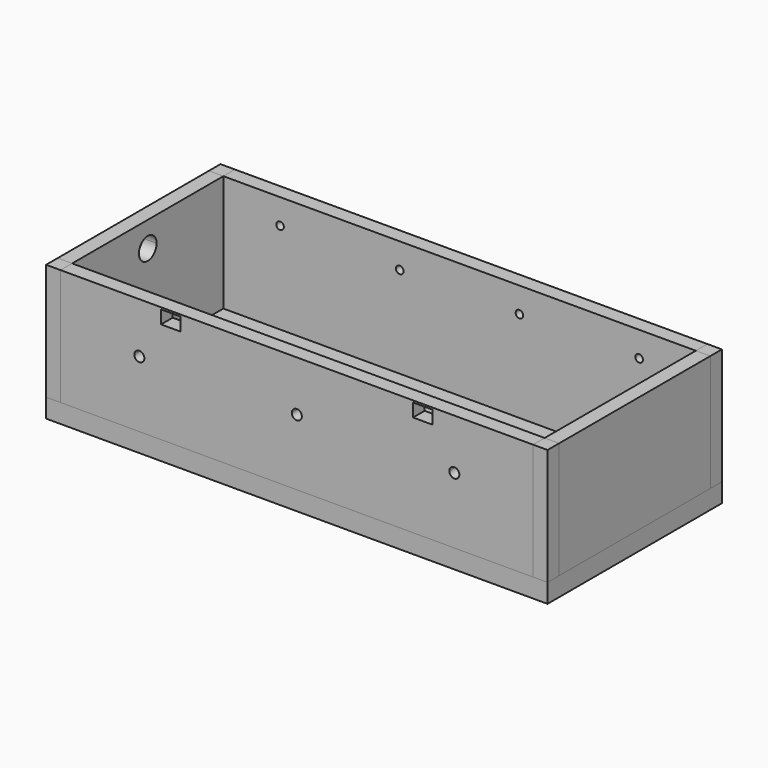
from build123d import *

# Parameters (mm, degrees)
F0_W      = 7960
F0_H      = 3460
F1_DEPTH  = 300
F2_W      = 230
F2_H      = 3000
F3_DEPTH  = 1850
F2_W_2    = 7500
F2_H_2    = 230
F4_DEPTH  = 1850
F6_DEPTH  = 230
F8_DEPTH  = 230
F7_W      = 155
F7_H      = 105
F9_DEPTH  = 230
F11_DEPTH = 230


with BuildPart() as f1:
    # F0 (on Top) → F1 (new body)
    with BuildSketch(Plane.XY):
        Rectangle(F0_W, F0_H)
    extrude(amount=-F1_DEPTH)


with BuildPart() as f3:
    # F2 (on face) → F3 (new body)
    with BuildSketch(Plane.XY):
        with Locations((-3865, 0)):
            Rectangle(F2_W, F2_H)
    extrude(amount=F3_DEPTH)

    # F10 (on face) → F11 (cut)
    with BuildSketch(Plane.YZ.offset(-3750)):
        with BuildLine():
            Line((0, 100), (60, 100))
            ThreePointArc((60, 100), (-42.4264068712, 142.4264068712), (0, 40))
            Line((0, 40), (0, 100))
        make_face()
        with BuildLine():
            ThreePointArc((0, 40), (42.4264068712, 57.5735931288), (60, 100))
            Line((60, 100), (0, 100))
            Line((0, 100), (0, 40))
        make_face()
        with BuildLine():
            Line((0, 1450), (0, 1625))
            ThreePointArc((0, 1625), (-123.7436867076, 1326.2563132924), (175, 1450))
            Line((175, 1450), (0, 1450))
        make_face()
        with BuildLine():
            ThreePointArc((175, 1450), (123.7436867076, 1573.7436867076), (0, 1625))
            Line((0, 1625), (0, 1450))
            Line((0, 1450), (175, 1450))
        make_face()
    extrude(amount=-F11_DEPTH, mode=Mode.SUBTRACT)


with BuildPart() as f3b:
    # F2 (on face) → F3, piece 2 (new body)
    with BuildSketch(Plane.XY):
        with Locations((3865, 0)):
            Rectangle(F2_W, F2_H)
    extrude(amount=F3_DEPTH)


with BuildPart() as f3c:
    # F2 (on face) → F3, piece 3 (new body)
    with BuildSketch(Plane.XY):
        with Locations((0, 1615)):
            Rectangle(F2_W_2, F2_H_2)
    extrude(amount=F3_DEPTH)

    # F5 (on face) → F6 (cut)
    with BuildSketch(Plane.XZ.offset(-1500)):
        with BuildLine():
            Line((-2850, 1450), (-2910, 1450))
            ThreePointArc((-2910, 1450), (-2850, 1390), (-2790, 1450))
            Line((-2790, 1450), (-2850, 1450))
        make_face()
        with BuildLine():
            Line((-2850, 1450), (-2850, 1510))
            ThreePointArc((-2850, 1510), (-2892.4264068712, 1492.4264068712), (-2910, 1450))
            Line((-2910, 1450), (-2850, 1450))
        make_face()
        with BuildLine():
            ThreePointArc((-2790, 1450), (-2807.5735931288, 1492.4264068712), (-2850, 1510))
            Line((-2850, 1510), (-2850, 1450))
            Line((-2850, 1450), (-2790, 1450))
        make_face()
        with BuildLine():
            Line((-950, 1450), (-1010, 1450))
            ThreePointArc((-1010, 1450), (-950, 1390), (-890, 1450))
            Line((-890, 1450), (-950, 1450))
        make_face()
        with BuildLine():
            Line((-950, 1450), (-950, 1510))
            ThreePointArc((-950, 1510), (-992.4264068712, 1492.4264068712), (-1010, 1450))
            Line((-1010, 1450), (-950, 1450))
        make_face()
        with BuildLine():
            ThreePointArc((-890, 1450), (-907.5735931288, 1492.4264068712), (-950, 1510))
            Line((-950, 1510), (-950, 1450))
            Line((-950, 1450), (-890, 1450))
        make_face()
        with BuildLine():
            Line((950, 1450), (890, 1450))
            ThreePointArc((890, 1450), (950, 1390), (1010, 1450))
            Line((1010, 1450), (950, 1450))
        make_face()
        with BuildLine():
            Line((950, 1450), (950, 1510))
            ThreePointArc((950, 1510), (907.5735931288, 1492.4264068712), (890, 1450))
            Line((890, 1450), (950, 1450))
        make_face()
        with BuildLine():
            ThreePointArc((1010, 1450), (992.4264068712, 1492.4264068712), (950, 1510))
            Line((950, 1510), (950, 1450))
            Line((950, 1450), (1010, 1450))
        make_face()
        with BuildLine():
            ThreePointArc((2790, 1450), (2850, 1390), (2910, 1450))
            Line((2910, 1450), (2850, 1450))
            Line((2850, 1450), (2790, 1450))
        make_face()
        with BuildLine():
            Line((2850, 1450), (2850, 1510))
            ThreePointArc((2850, 1510), (2807.5735931288, 1492.4264068712), (2790, 1450))
            Line((2790, 1450), (2850, 1450))
        make_face()
        with BuildLine():
            ThreePointArc((2910, 1450), (2892.4264068712, 1492.4264068712), (2850, 1510))
            Line((2850, 1510), (2850, 1450))
            Line((2850, 1450), (2910, 1450))
        make_face()
    extrude(amount=-F6_DEPTH, mode=Mode.SUBTRACT)


with BuildPart() as f3d:
    # F2 (on face) → F3, piece 4 (new body)
    with BuildSketch(Plane.XY):
        with Locations((0, -1615)):
            Rectangle(F2_W_2, F2_H_2)
    extrude(amount=F3_DEPTH)

    # F7 (on face) → F8 (cut)
    with BuildSketch(Plane(origin=(0, -1500, 0), x_dir=(-1, 0, 0), z_dir=(0, 1, 0))):
        with BuildLine():
            Line((-2500, 1050), (-2500, 1130))
            ThreePointArc((-2500, 1130), (-2556.5685424949, 1106.5685424949), (-2580, 1050))
            Line((-2580, 1050), (-2500, 1050))
        make_face()
        with BuildLine():
            ThreePointArc((-2420, 1050), (-2443.4314575051, 1106.5685424949), (-2500, 1130))
            Line((-2500, 1130), (-2500, 1050))
            Line((-2500, 1050), (-2420, 1050))
        make_face()
        with BuildLine():
            Line((-2500, 1050), (-2580, 1050))
            ThreePointArc((-2580, 1050), (-2500, 970), (-2420, 1050))
            Line((-2420, 1050), (-2500, 1050))
        make_face()
        with BuildLine():
            Line((0, 1050), (0, 1130))
            ThreePointArc((0, 1130), (-56.5685424949, 1106.5685424949), (-80, 1050))
            Line((-80, 1050), (0, 1050))
        make_face()
        with BuildLine():
            Line((0, 1050), (-80, 1050))
            ThreePointArc((-80, 1050), (0, 970), (80, 1050))
            Line((80, 1050), (0, 1050))
        make_face()
        with BuildLine():
            ThreePointArc((80, 1050), (56.5685424949, 1106.5685424949), (0, 1130))
            Line((0, 1130), (0, 1050))
            Line((0, 1050), (80, 1050))
        make_face()
        with BuildLine():
            Line((2500, 1050), (2420, 1050))
            ThreePointArc((2420, 1050), (2500, 970), (2580, 1050))
            Line((2580, 1050), (2500, 1050))
        make_face()
        with BuildLine():
            ThreePointArc((2500, 1130), (2443.4314575051, 1106.5685424949), (2420, 1050))
            Line((2420, 1050), (2500, 1050))
            Line((2500, 1050), (2500, 1130))
        make_face()
        with BuildLine():
            Line((2500, 1050), (2580, 1050))
            ThreePointArc((2580, 1050), (2556.5685424949, 1106.5685424949), (2500, 1130))
            Line((2500, 1130), (2500, 1050))
        make_face()
    extrude(amount=-F8_DEPTH, mode=Mode.SUBTRACT)

    # F7 (on face) → F9 (cut)
    with BuildSketch(Plane(origin=(0, -1500, 0), x_dir=(-1, 0, 0), z_dir=(0, 1, 0))):
        Polygon((2000, 1715), (2000, 1820), (1845, 1820), (1845, 1610), (2155, 1610), (2155, 1715), align=None)
        with Locations((2077.5, 1767.5)):
            Rectangle(F7_W, F7_H)
        Polygon((-2000, 1715), (-2155, 1715), (-2155, 1610), (-1845, 1610), (-1845, 1820), (-2000, 1820), align=None)
        with Locations((-2077.5, 1767.5)):
            Rectangle(F7_W, F7_H)
    extrude(amount=-F9_DEPTH, mode=Mode.SUBTRACT)


with BuildPart() as f4:
    # F2 (on face) → F4 (new body)
    with BuildSketch(Plane.XY):
        with Locations((-3865, -1615)):
            Rectangle(F2_W, F2_H_2)
    extrude(amount=F4_DEPTH)


with BuildPart() as f4b:
    # F2 (on face) → F4, piece 2 (new body)
    with BuildSketch(Plane.XY):
        with Locations((-3865, 1615)):
            Rectangle(F2_W, F2_H_2)
    extrude(amount=F4_DEPTH)


with BuildPart() as f4c:
    # F2 (on face) → F4, piece 3 (new body)
    with BuildSketch(Plane.XY):
        with Locations((3865, 1615)):
            Rectangle(F2_W, F2_H_2)
    extrude(amount=F4_DEPTH)


with BuildPart() as f4d:
    # F2 (on face) → F4, piece 4 (new body)
    with BuildSketch(Plane.XY):
        with Locations((3865, -1615)):
            Rectangle(F2_W, F2_H_2)
    extrude(amount=F4_DEPTH)


solid = Compound([f1.part, f3.part, f3b.part, f3c.part, f3d.part, f4.part, f4b.part, f4c.part, f4d.part])
